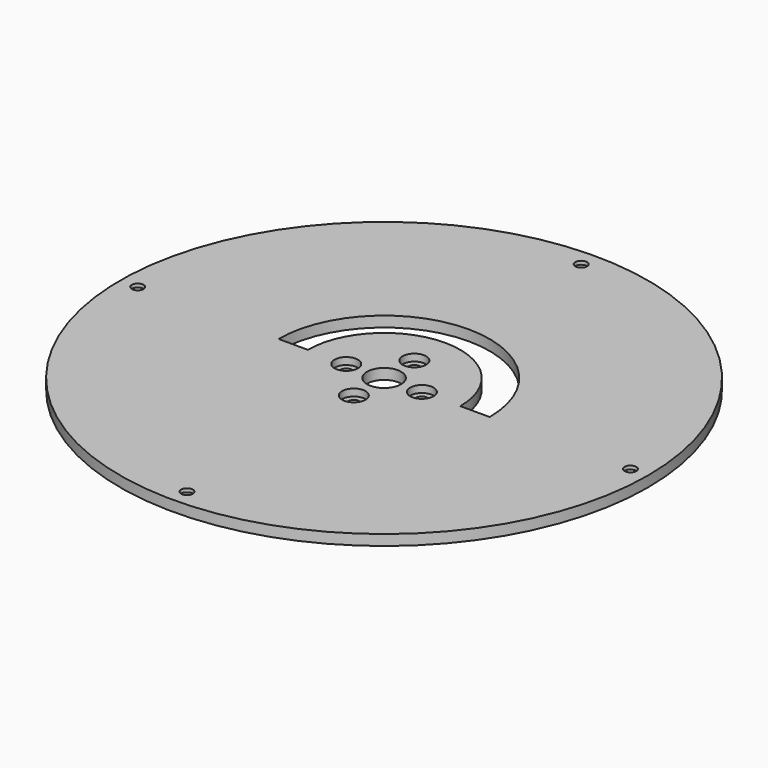
from build123d import *

# Parameters (mm, degrees)
SKETCH_R        = 45
SKETCH_R_2      = 1
SKETCH_R_3      = 2.9
PAD_DEPTH       = 1.8
SKETCH001_R     = 2
POCKET_DEPTH    = 1.2
SKETCH002_R     = 1
POCKET001_DEPTH = 1.801
SKETCH003_R     = 2
POCKET002_DEPTH = 1.2
POCKET003_DEPTH = 1.801


with BuildPart() as part:
    # Sketch → Pad (new body)
    with BuildSketch(Plane.XY):
        Circle(SKETCH_R)
        with Locations((0, 6.45)):
            Circle(SKETCH_R_2, mode=Mode.SUBTRACT)
        with Locations((-6.45, 0)):
            Circle(SKETCH_R_2, mode=Mode.SUBTRACT)
        with Locations((6.45, 0)):
            Circle(SKETCH_R_2, mode=Mode.SUBTRACT)
        with Locations((0, -6.45)):
            Circle(SKETCH_R_2, mode=Mode.SUBTRACT)
        Circle(SKETCH_R_3, mode=Mode.SUBTRACT)
    extrude(amount=PAD_DEPTH)

    # Sketch001 → Pocket (cut)
    with BuildSketch(Plane.XY.offset(1.8)):
        with Locations((-6.45, 0)):
            Circle(SKETCH001_R)
        with Locations((0, 6.45)):
            Circle(SKETCH001_R)
        with Locations((6.45, 0)):
            Circle(SKETCH001_R)
        with Locations((0, -6.45)):
            Circle(SKETCH001_R)
    extrude(amount=-POCKET_DEPTH, mode=Mode.SUBTRACT)

    # Sketch002 → Pocket001 (cut, through all)
    with BuildSketch(Plane.XY.offset(1.8)):
        with Locations((-42, 0)):
            Circle(SKETCH002_R)
        with Locations((42, 0)):
            Circle(SKETCH002_R)
        with Locations((0, 42)):
            Circle(SKETCH002_R)
        with Locations((0, -42)):
            Circle(SKETCH002_R)
    extrude(amount=-POCKET001_DEPTH, mode=Mode.SUBTRACT)

    # Sketch003 → Pocket002 (cut)
    with BuildSketch(Plane(origin=(0, 0, 0), x_dir=(1, 0, 0), z_dir=(0, 0, -1))):
        with Locations((-42, 0)):
            Circle(SKETCH003_R)
        with Locations((0, 42)):
            Circle(SKETCH003_R)
        with Locations((42, 0)):
            Circle(SKETCH003_R)
        with Locations((0, -42)):
            Circle(SKETCH003_R)
    extrude(amount=-POCKET002_DEPTH, mode=Mode.SUBTRACT)

    # Sketch004 → Pocket003 (cut, through all)
    with BuildSketch(Plane(origin=(0, 0, 0), x_dir=(1, 0, 0), z_dir=(0, 0, -1))):
        with BuildLine():
            ThreePointArc((-13, 0), (0, -13), (13, 0))
            Line((13, 0), (18, 0))
            ThreePointArc((-18, 0), (0, -18), (18, 0))
            Line((-18, 0), (-13, 0))
        make_face()
    extrude(amount=-POCKET003_DEPTH, mode=Mode.SUBTRACT)


solid = part.part
